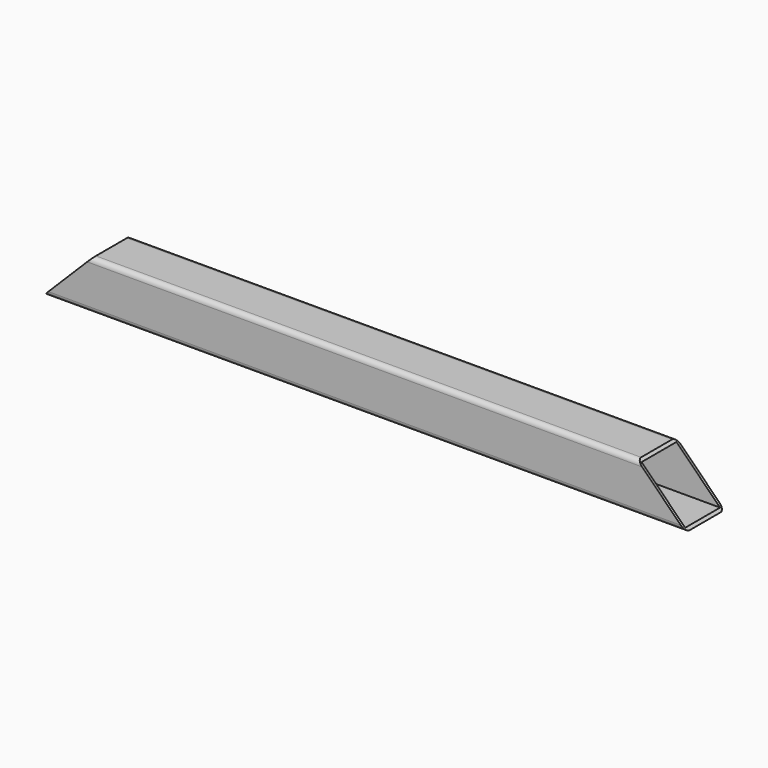
from build123d import *

# Parameters (mm, degrees)
F0_W     = 36
F0_H     = 36
F1_DEPTH = 530
F3_DEPTH = 40.001


with BuildPart() as f1:
    # F0 (on Right) → F1 (new body)
    with BuildSketch(Plane.YZ):
        with BuildLine():
            Line((-36, 0), (-4, 0))
            ThreePointArc((-4, 0), (-1.171573, 1.171573), (0, 4))
            Line((0, 4), (0, 36))
            ThreePointArc((0, 36), (-1.171573, 38.828427), (-4, 40))
            Line((-4, 40), (-36, 40))
            ThreePointArc((-36, 40), (-38.828427, 38.828427), (-40, 36))
            Line((-40, 36), (-40, 4))
            ThreePointArc((-40, 4), (-38.828427, 1.171573), (-36, 0))
        make_face()
        with Locations((-20, 20)):
            Rectangle(F0_W, F0_H, mode=Mode.SUBTRACT)
    extrude(amount=F1_DEPTH)

    # F2 (on face) → F3 (cut, through all)
    with BuildSketch(Plane.XZ.offset(40)):
        Polygon((0, 45.926278), (0, 0), (45.926278, 45.926278), align=None)
        Polygon((475.127908, 54.872092), (530, 0), (530, 54.872092), align=None)
    extrude(amount=-F3_DEPTH, mode=Mode.SUBTRACT)


solid = f1.part
